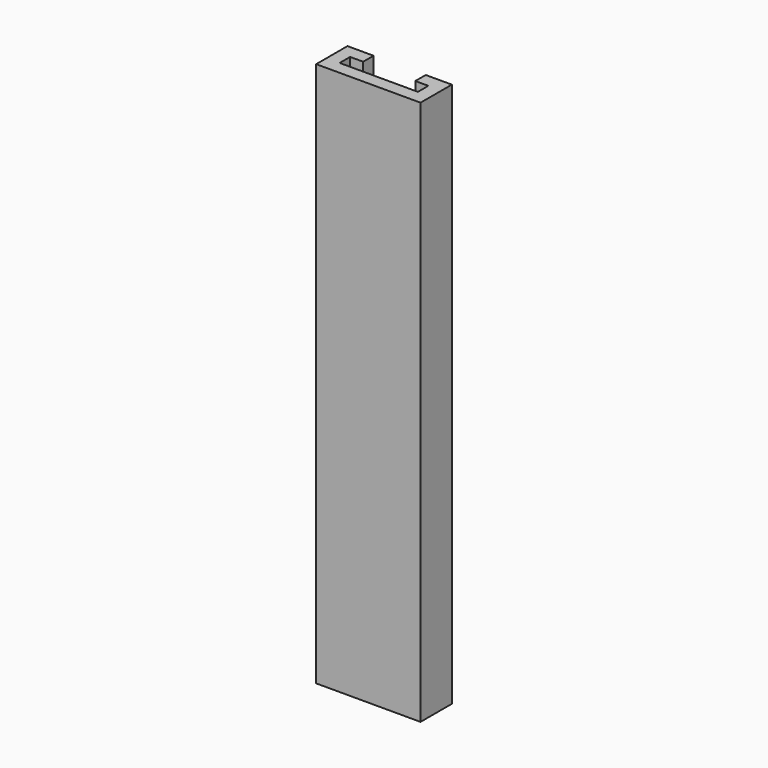
from build123d import *

# Parameters (mm, degrees)
F0_W     = 75
F0_H     = 610
F1_DEPTH = 200
F2_W     = 25
F2_H     = 25
F3_DEPTH = 525
F4_W     = 200
F4_H     = 75
F5_DEPTH = 220
F7_DEPTH = 215


with BuildPart() as f1:
    # F0 (on Right) → F1 (new body)
    with BuildSketch(Plane.YZ):
        Rectangle(F0_W, F0_H)
    extrude(amount=F1_DEPTH)

    # F2 (on face) → F3 (cut)
    with BuildSketch(Plane.XY.offset(305)):
        Polygon((150, 37.5), (50, 37.5), (50, 12.5), (50, -12.5), (150, -12.5), (150, 12.5), align=None)
        with Locations((37.5, 0)):
            Rectangle(F2_W, F2_H)
        with Locations((162.5, 0)):
            Rectangle(F2_W, F2_H)
    extrude(amount=-F3_DEPTH, mode=Mode.SUBTRACT)

    # F4 (on face) → F5 (join)
    with BuildSketch(Plane(origin=(0, 0, -305), x_dir=(1, 0, 0), z_dir=(0, 0, -1))):
        with Locations((100, 0)):
            Rectangle(F4_W, F4_H)
    extrude(amount=F5_DEPTH)

    # F6 (on face) → F7 (join)
    with BuildSketch(Plane.XY.offset(305)):
        Polygon((25, -12.5), (25, 12.5), (50, 12.5), (50, 37.5), (0, 37.5), (0, -37.5), (200, -37.5), (200, 37.5), (150, 37.5), (150, 12.5), (175, 12.5), (175, -12.5), align=None)
    extrude(amount=F7_DEPTH)


solid = f1.part
